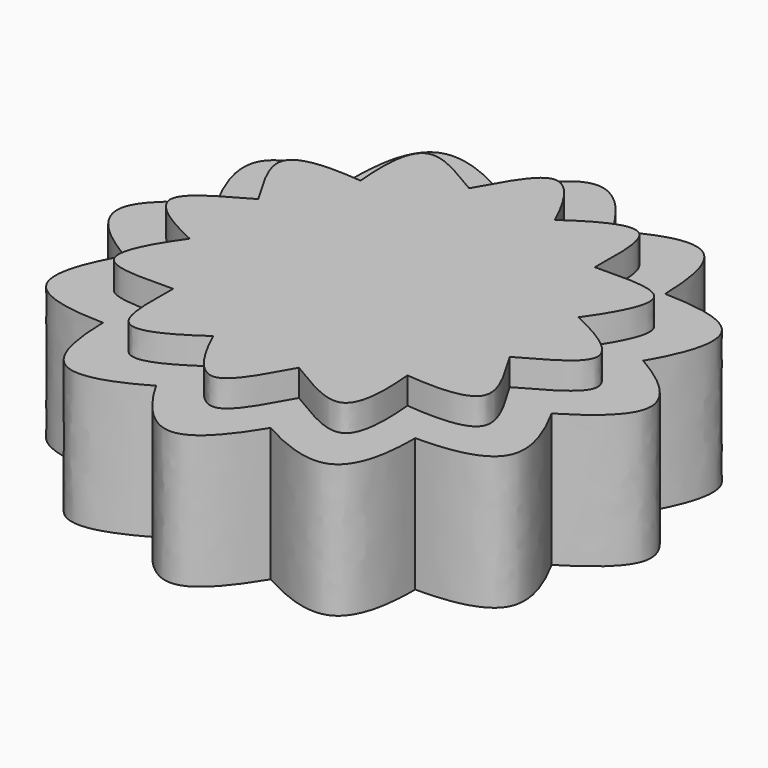
from build123d import *

# Parameters (mm, degrees)
F1_DEPTH = 10
F2_DEPTH = 30
F3_DEPTH = 50


with BuildPart() as f1:
    # F0 (on Top) → F1 (new body)
    with BuildSketch(Plane.XY):
        with BuildLine():
            add(Edge.make_bspline(
                [(60, -16.076952), (69.801278, -10.616283), (79.800193, -5.465845), (80, 0)],
                knots=[0, 0, 0, 0, 25.660639, 25.660639, 25.660639, 25.660639], degree=3))
            add(Edge.make_bspline(
                [(80, 0), (80.199807, 5.465845), (70.600506, 11.247097), (60, 16.076952)],
                knots=[25.660639, 25.660639, 25.660639, 25.660639, 51.321277, 51.321277, 51.321277, 51.321277], degree=3))
            add(Edge.make_bspline(
                [(43.923048, 43.923048), (55.141538, 44.09461), (77.610605, 45.172704), (66.76538, 25.559982), (60, 16.076952)],
                knots=[0, 0, 0, 0, 25.660639, 51.321277, 51.321277, 51.321277, 51.321277], degree=3))
            add(Edge.make_bspline(
                [(43.923048, 43.923048), (44.09461, 55.141538), (45.172704, 77.610605), (25.559982, 66.76538), (16.076952, 60)],
                knots=[0, 0, 0, 0, 25.660639, 51.321277, 51.321277, 51.321277, 51.321277], degree=3))
            add(Edge.make_bspline(
                [(-16.076952, 60), (-10.616283, 69.801278), (-0.315407, 89.799108), (11.247097, 70.600506), (16.076952, 60)],
                knots=[0, 0, 0, 0, 25.660639, 51.321277, 51.321277, 51.321277, 51.321277], degree=3))
            add(Edge.make_bspline(
                [(-16.076952, 60), (-25.706668, 65.757822), (-44.626404, 77.926012), (-45.040525, 55.518283), (-43.923048, 43.923048)],
                knots=[0, 0, 0, 0, 25.660639, 51.321277, 51.321277, 51.321277, 51.321277], degree=3))
            add(Edge.make_bspline(
                [(-60, 16.076952), (-65.757822, 25.706668), (-77.926012, 44.626404), (-55.518283, 45.040525), (-43.923048, 43.923048)],
                knots=[0, 0, 0, 0, 25.660639, 51.321277, 51.321277, 51.321277, 51.321277], degree=3))
            add(Edge.make_bspline(
                [(-60, 16.076952), (-69.801278, 10.616283), (-89.799108, 0.315407), (-70.600506, -11.247097), (-60, -16.076952)],
                knots=[0, 0, 0, 0, 25.660639, 51.321277, 51.321277, 51.321277, 51.321277], degree=3))
            add(Edge.make_bspline(
                [(-43.923048, -43.923048), (-55.141538, -44.09461), (-77.610605, -45.172704), (-66.76538, -25.559982), (-60, -16.076952)],
                knots=[0, 0, 0, 0, 25.660639, 51.321277, 51.321277, 51.321277, 51.321277], degree=3))
            add(Edge.make_bspline(
                [(-43.923048, -43.923048), (-44.09461, -55.141538), (-45.172704, -77.610605), (-25.559982, -66.76538), (-16.076952, -60)],
                knots=[0, 0, 0, 0, 25.660639, 51.321277, 51.321277, 51.321277, 51.321277], degree=3))
            add(Edge.make_bspline(
                [(16.076952, -60), (10.616283, -69.801278), (0.315407, -89.799108), (-11.247097, -70.600506), (-16.076952, -60)],
                knots=[0, 0, 0, 0, 25.660639, 51.321277, 51.321277, 51.321277, 51.321277], degree=3))
            add(Edge.make_bspline(
                [(16.076952, -60), (25.706668, -65.757822), (44.626404, -77.926012), (45.040525, -55.518283), (43.923048, -43.923048)],
                knots=[0, 0, 0, 0, 25.660639, 51.321277, 51.321277, 51.321277, 51.321277], degree=3))
            add(Edge.make_bspline(
                [(60, -16.076952), (65.757822, -25.706668), (77.926012, -44.626404), (55.518283, -45.040525), (43.923048, -43.923048)],
                knots=[0, 0, 0, 0, 25.660639, 51.321277, 51.321277, 51.321277, 51.321277], degree=3))
        make_face()
    extrude(amount=F1_DEPTH)

    # F0 (on Top) → F2 (join)
    with BuildSketch(Plane.XY):
        with BuildLine():
            add(Edge.make_bspline(
                [(70, -18.756443), (80.312933, -12.60839), (89.828774, -6.437435), (90, 0)],
                knots=[0, 0, 0, 0, 27.419048, 27.419048, 27.419048, 27.419048], degree=3))
            add(Edge.make_bspline(
                [(90, 0), (90.171226, 6.437435), (80.997837, 13.141352), (70, 18.756443)],
                knots=[27.419048, 27.419048, 27.419048, 27.419048, 54.838095, 54.838095, 54.838095, 54.838095], degree=3))
            add(Edge.make_bspline(
                [(51.243557, 51.243557), (63.248845, 51.075652), (85.90172, 49.903087), (76.716861, 29.118174), (70, 18.756443)],
                knots=[0, 0, 0, 0, 27.419048, 54.838095, 54.838095, 54.838095, 54.838095], degree=3))
            add(Edge.make_bspline(
                [(51.243557, 51.243557), (51.075652, 63.248845), (49.903087, 85.90172), (29.118174, 76.716861), (18.756443, 70)],
                knots=[0, 0, 0, 0, 27.419048, 54.838095, 54.838095, 54.838095, 54.838095], degree=3))
            add(Edge.make_bspline(
                [(-18.756443, 70), (-12.60839, 80.312933), (-0.266481, 99.344615), (13.141352, 80.997837), (18.756443, 70)],
                knots=[0, 0, 0, 0, 27.419048, 54.838095, 54.838095, 54.838095, 54.838095], degree=3))
            add(Edge.make_bspline(
                [(-18.756443, 70), (-29.237281, 75.857235), (-49.441528, 86.168201), (-51.879663, 63.575509), (-51.243557, 51.243557)],
                knots=[0, 0, 0, 0, 27.419048, 54.838095, 54.838095, 54.838095, 54.838095], degree=3))
            add(Edge.make_bspline(
                [(-70, 18.756443), (-75.857235, 29.237281), (-86.168201, 49.441528), (-63.575509, 51.879663), (-51.243557, 51.243557)],
                knots=[0, 0, 0, 0, 27.419048, 54.838095, 54.838095, 54.838095, 54.838095], degree=3))
            add(Edge.make_bspline(
                [(-70, 18.756443), (-80.312933, 12.60839), (-99.344615, 0.266481), (-80.997837, -13.141352), (-70, -18.756443)],
                knots=[0, 0, 0, 0, 27.419048, 54.838095, 54.838095, 54.838095, 54.838095], degree=3))
            add(Edge.make_bspline(
                [(-51.243557, -51.243557), (-63.248845, -51.075652), (-85.90172, -49.903087), (-76.716861, -29.118174), (-70, -18.756443)],
                knots=[0, 0, 0, 0, 27.419048, 54.838095, 54.838095, 54.838095, 54.838095], degree=3))
            add(Edge.make_bspline(
                [(-51.243557, -51.243557), (-51.075652, -63.248845), (-49.903087, -85.90172), (-29.118174, -76.716861), (-18.756443, -70)],
                knots=[0, 0, 0, 0, 27.419048, 54.838095, 54.838095, 54.838095, 54.838095], degree=3))
            add(Edge.make_bspline(
                [(18.756443, -70), (12.60839, -80.312933), (0.266481, -99.344615), (-13.141352, -80.997837), (-18.756443, -70)],
                knots=[0, 0, 0, 0, 27.419048, 54.838095, 54.838095, 54.838095, 54.838095], degree=3))
            add(Edge.make_bspline(
                [(18.756443, -70), (29.237281, -75.857235), (49.441528, -86.168201), (51.879663, -63.575509), (51.243557, -51.243557)],
                knots=[0, 0, 0, 0, 27.419048, 54.838095, 54.838095, 54.838095, 54.838095], degree=3))
            add(Edge.make_bspline(
                [(70, -18.756443), (75.857235, -29.237281), (86.168201, -49.441528), (63.575509, -51.879663), (51.243557, -51.243557)],
                knots=[0, 0, 0, 0, 27.419048, 54.838095, 54.838095, 54.838095, 54.838095], degree=3))
        make_face()
        with BuildLine():
            add(Edge.make_bspline(
                [(80, 0), (80.199807, 5.465845), (70.600506, 11.247097), (60, 16.076952)],
                knots=[25.660639, 25.660639, 25.660639, 25.660639, 51.321277, 51.321277, 51.321277, 51.321277], degree=3))
            add(Edge.make_bspline(
                [(60, -16.076952), (69.801278, -10.616283), (79.800193, -5.465845), (80, 0)],
                knots=[0, 0, 0, 0, 25.660639, 25.660639, 25.660639, 25.660639], degree=3))
            add(Edge.make_bspline(
                [(60, -16.076952), (65.757822, -25.706668), (77.926012, -44.626404), (55.518283, -45.040525), (43.923048, -43.923048)],
                knots=[0, 0, 0, 0, 25.660639, 51.321277, 51.321277, 51.321277, 51.321277], degree=3))
            add(Edge.make_bspline(
                [(16.076952, -60), (25.706668, -65.757822), (44.626404, -77.926012), (45.040525, -55.518283), (43.923048, -43.923048)],
                knots=[0, 0, 0, 0, 25.660639, 51.321277, 51.321277, 51.321277, 51.321277], degree=3))
            add(Edge.make_bspline(
                [(16.076952, -60), (10.616283, -69.801278), (0.315407, -89.799108), (-11.247097, -70.600506), (-16.076952, -60)],
                knots=[0, 0, 0, 0, 25.660639, 51.321277, 51.321277, 51.321277, 51.321277], degree=3))
            add(Edge.make_bspline(
                [(-43.923048, -43.923048), (-44.09461, -55.141538), (-45.172704, -77.610605), (-25.559982, -66.76538), (-16.076952, -60)],
                knots=[0, 0, 0, 0, 25.660639, 51.321277, 51.321277, 51.321277, 51.321277], degree=3))
            add(Edge.make_bspline(
                [(-43.923048, -43.923048), (-55.141538, -44.09461), (-77.610605, -45.172704), (-66.76538, -25.559982), (-60, -16.076952)],
                knots=[0, 0, 0, 0, 25.660639, 51.321277, 51.321277, 51.321277, 51.321277], degree=3))
            add(Edge.make_bspline(
                [(-60, 16.076952), (-69.801278, 10.616283), (-89.799108, 0.315407), (-70.600506, -11.247097), (-60, -16.076952)],
                knots=[0, 0, 0, 0, 25.660639, 51.321277, 51.321277, 51.321277, 51.321277], degree=3))
            add(Edge.make_bspline(
                [(-60, 16.076952), (-65.757822, 25.706668), (-77.926012, 44.626404), (-55.518283, 45.040525), (-43.923048, 43.923048)],
                knots=[0, 0, 0, 0, 25.660639, 51.321277, 51.321277, 51.321277, 51.321277], degree=3))
            add(Edge.make_bspline(
                [(-16.076952, 60), (-25.706668, 65.757822), (-44.626404, 77.926012), (-45.040525, 55.518283), (-43.923048, 43.923048)],
                knots=[0, 0, 0, 0, 25.660639, 51.321277, 51.321277, 51.321277, 51.321277], degree=3))
            add(Edge.make_bspline(
                [(-16.076952, 60), (-10.616283, 69.801278), (-0.315407, 89.799108), (11.247097, 70.600506), (16.076952, 60)],
                knots=[0, 0, 0, 0, 25.660639, 51.321277, 51.321277, 51.321277, 51.321277], degree=3))
            add(Edge.make_bspline(
                [(43.923048, 43.923048), (44.09461, 55.141538), (45.172704, 77.610605), (25.559982, 66.76538), (16.076952, 60)],
                knots=[0, 0, 0, 0, 25.660639, 51.321277, 51.321277, 51.321277, 51.321277], degree=3))
            add(Edge.make_bspline(
                [(43.923048, 43.923048), (55.141538, 44.09461), (77.610605, 45.172704), (66.76538, 25.559982), (60, 16.076952)],
                knots=[0, 0, 0, 0, 25.660639, 51.321277, 51.321277, 51.321277, 51.321277], degree=3))
        make_face(mode=Mode.SUBTRACT)
    extrude(amount=-F2_DEPTH)

    # F0 (on Top) → F3 (join)
    with BuildSketch(Plane.XY):
        with BuildLine():
            add(Edge.make_bspline(
                [(80, -21.435935), (91.39379, -14.534127), (99.914489, -7.332845), (100, 0)],
                knots=[0, 0, 0, 0, 29.317219, 29.317219, 29.317219, 29.317219], degree=3))
            add(Edge.make_bspline(
                [(100, 0), (100.085511, 7.332845), (91.735835, 14.797251), (80, 21.435935)],
                knots=[29.317219, 29.317219, 29.317219, 29.317219, 58.634438, 58.634438, 58.634438, 58.634438], degree=3))
            add(Edge.make_bspline(
                [(58.564065, 58.564065), (71.88228, 58.283818), (93.841846, 54.33153), (86.844189, 33.053122), (80, 21.435935)],
                knots=[0, 0, 0, 0, 29.317219, 58.634438, 58.634438, 58.634438, 58.634438], degree=3))
            add(Edge.make_bspline(
                [(58.564065, 58.564065), (58.283818, 71.88228), (54.33153, 93.841846), (33.053122, 86.844189), (21.435935, 80)],
                knots=[0, 0, 0, 0, 29.317219, 58.634438, 58.634438, 58.634438, 58.634438], degree=3))
            add(Edge.make_bspline(
                [(-21.435935, 80), (-14.534127, 91.39379), (-0.131562, 108.435188), (14.797251, 91.735835), (21.435935, 80)],
                knots=[0, 0, 0, 0, 29.317219, 58.634438, 58.634438, 58.634438, 58.634438], degree=3))
            add(Edge.make_bspline(
                [(-21.435935, 80), (-33.109972, 86.416407), (-54.103658, 93.973408), (-58.682713, 72.046938), (-58.564065, 58.564065)],
                knots=[0, 0, 0, 0, 29.317219, 58.634438, 58.634438, 58.634438, 58.634438], degree=3))
            add(Edge.make_bspline(
                [(-80, 21.435935), (-86.416407, 33.109972), (-93.973408, 54.103658), (-72.046938, 58.682713), (-58.564065, 58.564065)],
                knots=[0, 0, 0, 0, 29.317219, 58.634438, 58.634438, 58.634438, 58.634438], degree=3))
            add(Edge.make_bspline(
                [(-80, 21.435935), (-91.39379, 14.534127), (-108.435188, 0.131562), (-91.735835, -14.797251), (-80, -21.435935)],
                knots=[0, 0, 0, 0, 29.317219, 58.634438, 58.634438, 58.634438, 58.634438], degree=3))
            add(Edge.make_bspline(
                [(-58.564065, -58.564065), (-71.88228, -58.283818), (-93.841846, -54.33153), (-86.844189, -33.053122), (-80, -21.435935)],
                knots=[0, 0, 0, 0, 29.317219, 58.634438, 58.634438, 58.634438, 58.634438], degree=3))
            add(Edge.make_bspline(
                [(-58.564065, -58.564065), (-58.283818, -71.88228), (-54.33153, -93.841846), (-33.053122, -86.844189), (-21.435935, -80)],
                knots=[0, 0, 0, 0, 29.317219, 58.634438, 58.634438, 58.634438, 58.634438], degree=3))
            add(Edge.make_bspline(
                [(21.435935, -80), (14.534127, -91.39379), (0.131562, -108.435188), (-14.797251, -91.735835), (-21.435935, -80)],
                knots=[0, 0, 0, 0, 29.317219, 58.634438, 58.634438, 58.634438, 58.634438], degree=3))
            add(Edge.make_bspline(
                [(21.435935, -80), (33.109972, -86.416407), (54.103658, -93.973408), (58.682713, -72.046938), (58.564065, -58.564065)],
                knots=[0, 0, 0, 0, 29.317219, 58.634438, 58.634438, 58.634438, 58.634438], degree=3))
            add(Edge.make_bspline(
                [(80, -21.435935), (86.416407, -33.109972), (93.973408, -54.103658), (72.046938, -58.682713), (58.564065, -58.564065)],
                knots=[0, 0, 0, 0, 29.317219, 58.634438, 58.634438, 58.634438, 58.634438], degree=3))
        make_face()
        with BuildLine():
            add(Edge.make_bspline(
                [(90, 0), (90.171226, 6.437435), (80.997837, 13.141352), (70, 18.756443)],
                knots=[27.419048, 27.419048, 27.419048, 27.419048, 54.838095, 54.838095, 54.838095, 54.838095], degree=3))
            add(Edge.make_bspline(
                [(70, -18.756443), (80.312933, -12.60839), (89.828774, -6.437435), (90, 0)],
                knots=[0, 0, 0, 0, 27.419048, 27.419048, 27.419048, 27.419048], degree=3))
            add(Edge.make_bspline(
                [(70, -18.756443), (75.857235, -29.237281), (86.168201, -49.441528), (63.575509, -51.879663), (51.243557, -51.243557)],
                knots=[0, 0, 0, 0, 27.419048, 54.838095, 54.838095, 54.838095, 54.838095], degree=3))
            add(Edge.make_bspline(
                [(18.756443, -70), (29.237281, -75.857235), (49.441528, -86.168201), (51.879663, -63.575509), (51.243557, -51.243557)],
                knots=[0, 0, 0, 0, 27.419048, 54.838095, 54.838095, 54.838095, 54.838095], degree=3))
            add(Edge.make_bspline(
                [(18.756443, -70), (12.60839, -80.312933), (0.266481, -99.344615), (-13.141352, -80.997837), (-18.756443, -70)],
                knots=[0, 0, 0, 0, 27.419048, 54.838095, 54.838095, 54.838095, 54.838095], degree=3))
            add(Edge.make_bspline(
                [(-51.243557, -51.243557), (-51.075652, -63.248845), (-49.903087, -85.90172), (-29.118174, -76.716861), (-18.756443, -70)],
                knots=[0, 0, 0, 0, 27.419048, 54.838095, 54.838095, 54.838095, 54.838095], degree=3))
            add(Edge.make_bspline(
                [(-51.243557, -51.243557), (-63.248845, -51.075652), (-85.90172, -49.903087), (-76.716861, -29.118174), (-70, -18.756443)],
                knots=[0, 0, 0, 0, 27.419048, 54.838095, 54.838095, 54.838095, 54.838095], degree=3))
            add(Edge.make_bspline(
                [(-70, 18.756443), (-80.312933, 12.60839), (-99.344615, 0.266481), (-80.997837, -13.141352), (-70, -18.756443)],
                knots=[0, 0, 0, 0, 27.419048, 54.838095, 54.838095, 54.838095, 54.838095], degree=3))
            add(Edge.make_bspline(
                [(-70, 18.756443), (-75.857235, 29.237281), (-86.168201, 49.441528), (-63.575509, 51.879663), (-51.243557, 51.243557)],
                knots=[0, 0, 0, 0, 27.419048, 54.838095, 54.838095, 54.838095, 54.838095], degree=3))
            add(Edge.make_bspline(
                [(-18.756443, 70), (-29.237281, 75.857235), (-49.441528, 86.168201), (-51.879663, 63.575509), (-51.243557, 51.243557)],
                knots=[0, 0, 0, 0, 27.419048, 54.838095, 54.838095, 54.838095, 54.838095], degree=3))
            add(Edge.make_bspline(
                [(-18.756443, 70), (-12.60839, 80.312933), (-0.266481, 99.344615), (13.141352, 80.997837), (18.756443, 70)],
                knots=[0, 0, 0, 0, 27.419048, 54.838095, 54.838095, 54.838095, 54.838095], degree=3))
            add(Edge.make_bspline(
                [(51.243557, 51.243557), (51.075652, 63.248845), (49.903087, 85.90172), (29.118174, 76.716861), (18.756443, 70)],
                knots=[0, 0, 0, 0, 27.419048, 54.838095, 54.838095, 54.838095, 54.838095], degree=3))
            add(Edge.make_bspline(
                [(51.243557, 51.243557), (63.248845, 51.075652), (85.90172, 49.903087), (76.716861, 29.118174), (70, 18.756443)],
                knots=[0, 0, 0, 0, 27.419048, 54.838095, 54.838095, 54.838095, 54.838095], degree=3))
        make_face(mode=Mode.SUBTRACT)
    extrude(amount=-F3_DEPTH)


solid = f1.part
